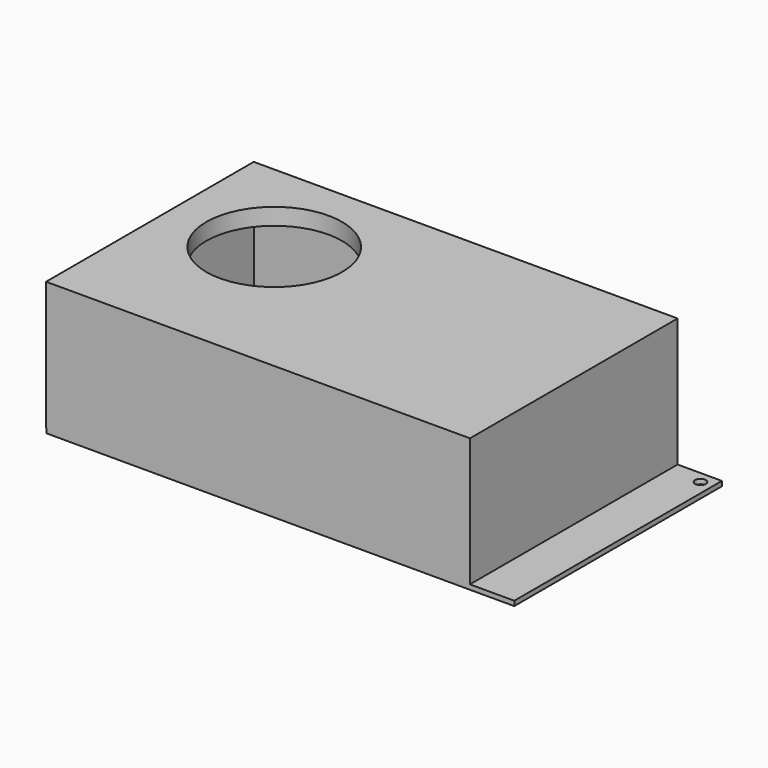
from build123d import *

# Parameters (mm, degrees)
SKETCH005_R             = 2.25
SKETCH005_R_2           = 2
PAD003_DEPTH            = 2
SKETCH007_W             = 178
SKETCH007_H             = 109
SKETCH007_R             = 28.5
PAD005_DEPTH            = 54
SKETCH008_W             = 176.272423
SKETCH008_H             = 107.053562
POCKET001_DEPTH         = 48
BODY001_PLACEMENT_ANGLE = 180


with BuildPart() as part:
    # Sketch005 → Pad003 (new body)
    with BuildSketch(Plane.XY.offset(13)):
        with BuildLine():
            Line((-98.25, -54.5), (-98.25, 54.5))
            Line((-98.25, 54.5), (98.25, 54.5))
            Line((98.25, 54.5), (98.25, 48))
            Line((98.25, 48), (95.75, 48))
            ThreePointArc((95.75, 48), (93.75, 46), (95.75, 44))
            Line((95.75, 44), (98.25, 44))
            Line((98.25, 44), (98.25, -54.5))
            Line((98.25, -54.5), (-98.25, -54.5))
        make_face()
        with Locations((-93.25, -49.5)):
            Circle(SKETCH005_R, mode=Mode.SUBTRACT)
        with Locations((-35.75, 44.5)):
            Circle(SKETCH005_R_2, mode=Mode.SUBTRACT)
        with Locations((90.75, 44.5)):
            Circle(SKETCH005_R_2, mode=Mode.SUBTRACT)
        with Locations((90.75, -40.5)):
            Circle(SKETCH005_R_2, mode=Mode.SUBTRACT)
        with Locations((-35.75, -40.5)):
            Circle(SKETCH005_R_2, mode=Mode.SUBTRACT)
    extrude(amount=PAD003_DEPTH)

    # Sketch007 (on Face15 of Pad003) → Pad005 (join)
    with BuildSketch(Plane.XY.offset(15)):
        with Locations((9.36, 0)):
            Rectangle(SKETCH007_W, SKETCH007_H)
        with Locations((55.36, -11.5)):
            Circle(SKETCH007_R, mode=Mode.SUBTRACT)
    extrude(amount=PAD005_DEPTH)

    # Sketch008 (on Face5 of Pad005) → Pocket001 (cut)
    with BuildSketch(Plane.XY.offset(14)):
        with Locations((9.419559, -0.035154)):
            Rectangle(SKETCH008_W, SKETCH008_H)
    extrude(amount=POCKET001_DEPTH, mode=Mode.SUBTRACT)


with BuildPart() as part_1:
    # Body001 placement: moved
    add(part.part.moved(Location((-11.25, 0, -2))).rotate(Axis((-11.25, 0, -2), (0, 0, 1)), BODY001_PLACEMENT_ANGLE))


solid = part_1.part
